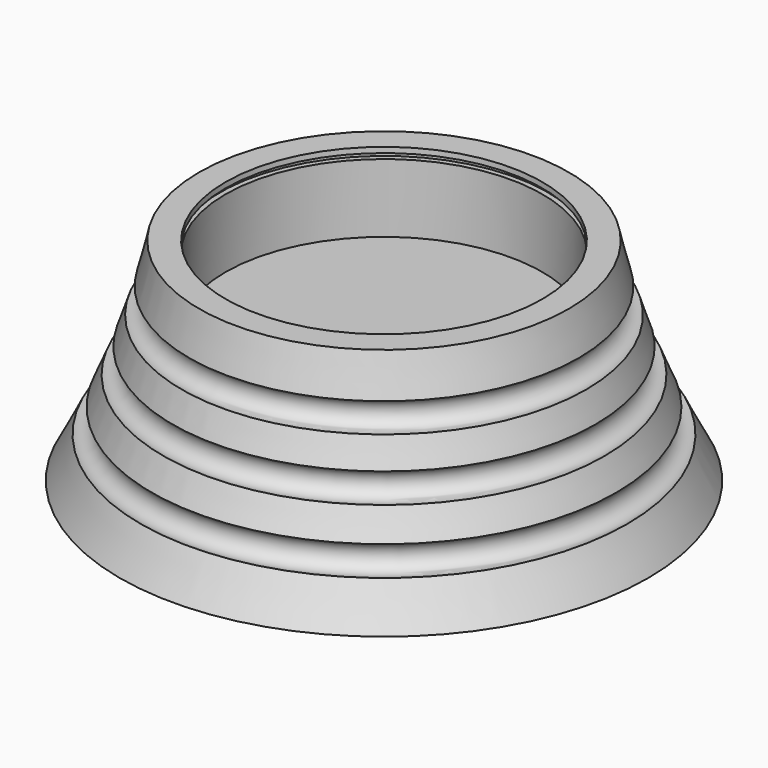
from build123d import *


with BuildPart() as f1:
    # F0 (on Front) → F1 (revolve)
    with BuildSketch(Plane.XZ):
        with BuildLine():
            Line((0, 0), (50, 0))
            ThreePointArc((50, 0), (47.966747, 3.837999), (46.045465, 7.733257))
            ThreePointArc((46.045465, 7.733257), (42.715558, 8.96447), (43.974478, 12.284002))
            ThreePointArc((43.974478, 12.284002), (42.839638, 14.96283), (41.756966, 17.663164))
            ThreePointArc((41.756966, 17.663164), (38.524441, 19.131137), (40.019301, 22.351317))
            ThreePointArc((40.019301, 22.351317), (39.12478, 24.970917), (38.278751, 27.606577))
            ThreePointArc((38.278751, 27.606577), (35.157226, 29.297804), (36.874407, 32.405127))
            ThreePointArc((36.874407, 32.405127), (35.887685, 36.190342), (35, 40))
            Line((35, 40), (30, 40))
            Line((30, 40), (30, 38.966667))
            Line((30, 38.966667), (31, 38.966667))
            Line((31, 38.966667), (31, 37.966667))
            Line((31, 37.966667), (30, 37.966667))
            Line((30, 37.966667), (30, 25))
            Line((30, 25), (0, 25))
            Line((0, 25), (0, 0))
        make_face()
    revolve(axis=Axis((0, 0, 12.5), (0, 0, 1)))


solid = f1.part
